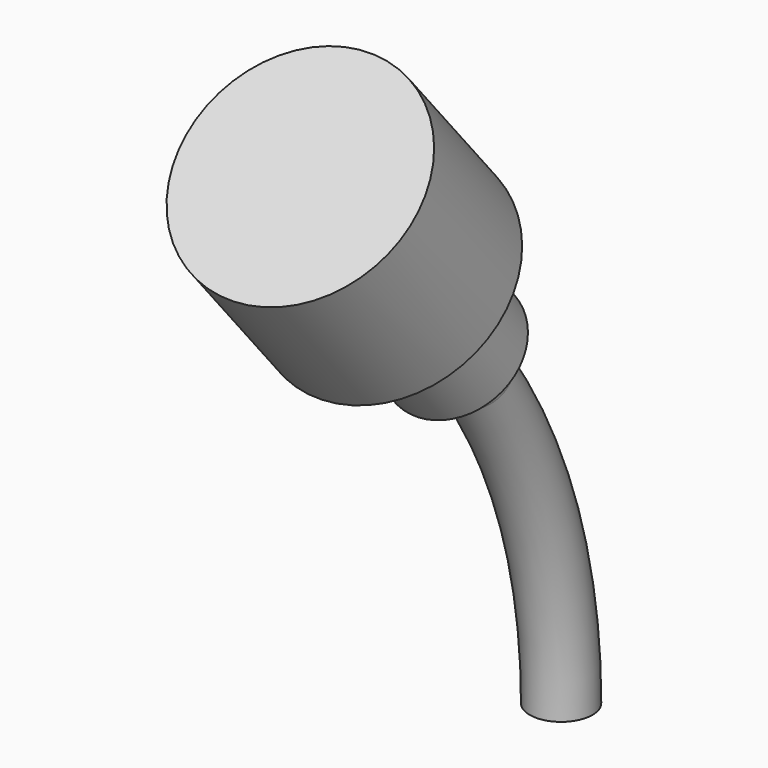
from build123d import *

# Parameters (mm, degrees)
CONE008_ROLL_ANGLE           = -35.5
BOX001027045032_W            = 10
BOX001027045032_H            = 24
BOX001027045032_DEPTH        = 22
BOX001027045032_ROLL_ANGLE   = -35.5
BOX001027045031_W            = 10
BOX001027045031_H            = 24
BOX001027045031_DEPTH        = 22
TORUS007_R                   = 1.1
TORUS007_PITCH_ANGLE         = 90
CYLINDER137_R                = 4
CYLINDER137_DEPTH            = 6
CYLINDER137_ROLL_ANGLE       = -40
CYLINDER136_R                = 2.2
CYLINDER136_DEPTH            = 10
CYLINDER136_ROLL_ANGLE       = -40
FUSION112047_PLACEMENT_ANGLE = 180


with BuildPart() as cone008:
    # Cone008 → Cone008 (revolve)
    with BuildSketch(Plane.XZ):
        Polygon((0, 0), (1.1, 0), (1.3, 2), (0, 2), align=None)
    revolve(axis=Axis((0, 0, 0), (0, 0, 1)))


with BuildPart() as cone008_1:
    # Cone008 roll: moved
    add(cone008.part.rotate(Axis((0, 0, 0), (1, 0, 0)), CONE008_ROLL_ANGLE))


with BuildPart() as cone008_2:
    # Cone008 placement: moved
    add(cone008_1.part.moved(Location((0, 3.71769, 11.614059))))


with BuildPart() as cube085:
    # Box001027045032 → Box001027045032 (new body)
    with BuildSketch(Plane.XY):
        with Locations((5, 12)):
            Rectangle(BOX001027045032_W, BOX001027045032_H)
    extrude(amount=BOX001027045032_DEPTH)


with BuildPart() as cube085_1:
    # Box001027045032 roll: moved
    add(cube085.part.rotate(Axis((0, 0, 0), (1, 0, 0)), BOX001027045032_ROLL_ANGLE))


with BuildPart() as cube085_2:
    # Box001027045032 placement: moved
    add(cube085_1.part.moved(Location((-5, 0.461228, 13.936871))))


with BuildPart() as cube084:
    # Box001027045031 → Box001027045031 (new body)
    with BuildSketch(Plane(origin=(-5, -4, 0), x_dir=(1, 0, 0), z_dir=(0, 0, 1))):
        with Locations((5, 12)):
            Rectangle(BOX001027045031_W, BOX001027045031_H)
    extrude(amount=BOX001027045031_DEPTH)


with BuildPart() as cut074:
    # Torus007 → Torus007 (revolve)
    with BuildSketch(Plane.XZ):
        with Locations((20, 0)):
            Circle(TORUS007_R)
    revolve(axis=Axis((0, 0, 0), (0, 0, 1)))


with BuildPart() as cut074_1:
    # Torus007 pitch: moved
    add(cut074.part.rotate(Axis((0, 0, 0), (0, 1, 0)), TORUS007_PITCH_ANGLE))


with BuildPart() as cut074_2:
    # Torus007 placement: moved
    add(cut074_1.part.moved(Location((0, 20, 0))))

    # Common059: intersect Cube084
    add(cube084.part, mode=Mode.INTERSECT)

    # Cut074: cut Cube085
    add(cube085_2.part, mode=Mode.SUBTRACT)


with BuildPart() as cylinder195:
    # Cylinder137 → Cylinder137 (new body)
    with BuildSketch(Plane.XY):
        Circle(CYLINDER137_R)
    extrude(amount=CYLINDER137_DEPTH)


with BuildPart() as cylinder195_1:
    # Cylinder137 roll: moved
    add(cylinder195.part.rotate(Axis((0, 0, 0), (1, 0, 0)), CYLINDER137_ROLL_ANGLE))


with BuildPart() as cylinder195_2:
    # Cylinder137 placement: moved
    add(cylinder195_1.part.moved(Location((0, 7.571655, 16.302952))))


with BuildPart() as obj1:
    # Cylinder136 → Cylinder136 (new body)
    with BuildSketch(Plane.XY):
        Circle(CYLINDER136_R)
    extrude(amount=CYLINDER136_DEPTH)


with BuildPart() as obj1_1:
    # Cylinder136 roll: moved
    add(obj1.part.rotate(Axis((0, 0, 0), (1, 0, 0)), CYLINDER136_ROLL_ANGLE))


with BuildPart() as obj1_2:
    # Cylinder136 placement: moved
    add(obj1_1.part.moved(Location((0, 4.679111, 12.855752))))

    # Fusion112047: union Cone008, Cut074, Cylinder195
    add(cone008_2.part)
    add(cut074_2.part)
    add(cylinder195_2.part)


with BuildPart() as obj1_3:
    # Fusion112047 placement: moved
    add(obj1_2.part.moved(Location((0, 0, 11))).rotate(Axis((0, 0, 11), (0, 0, 1)), FUSION112047_PLACEMENT_ANGLE))


solid = obj1_3.part
